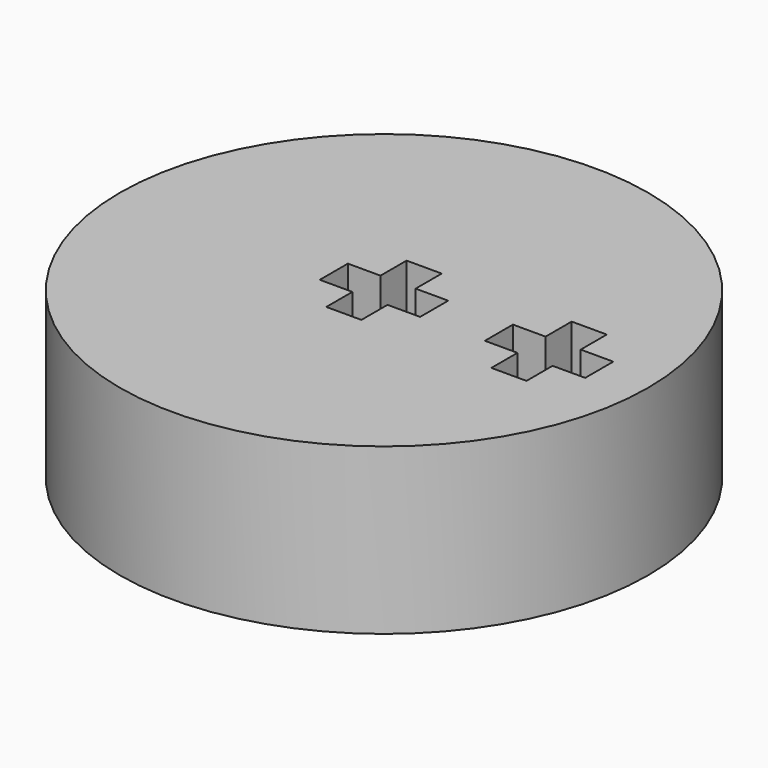
from build123d import *

# Parameters (mm, degrees)
F0_R     = 12.7
F1_DEPTH = 7.9375


with BuildPart() as f1:
    # F0 (on Top) → F1 (new body)
    with BuildSketch(Plane.XY):
        Circle(F0_R)
        Polygon((0.84455, -0.84455), (0.84455, -2.413), (-0.84455, -2.413), (-0.84455, -0.84455), (-2.413, -0.84455), (-2.413, 0.84455), (-0.84455, 0.84455), (-0.84455, 2.413), (0.84455, 2.413), (0.84455, 0.84455), (2.413, 0.84455), (2.413, -0.84455), align=None, mode=Mode.SUBTRACT)
        Polygon((8.78205, -0.84455), (8.78205, -2.413), (7.09295, -2.413), (7.09295, -0.84455), (5.5245, -0.84455), (5.5245, 0.84455), (7.09295, 0.84455), (7.09295, 2.413), (8.78205, 2.413), (8.78205, 0.84455), (10.3505, 0.84455), (10.3505, -0.84455), align=None, mode=Mode.SUBTRACT)
    extrude(amount=F1_DEPTH)


solid = f1.part
